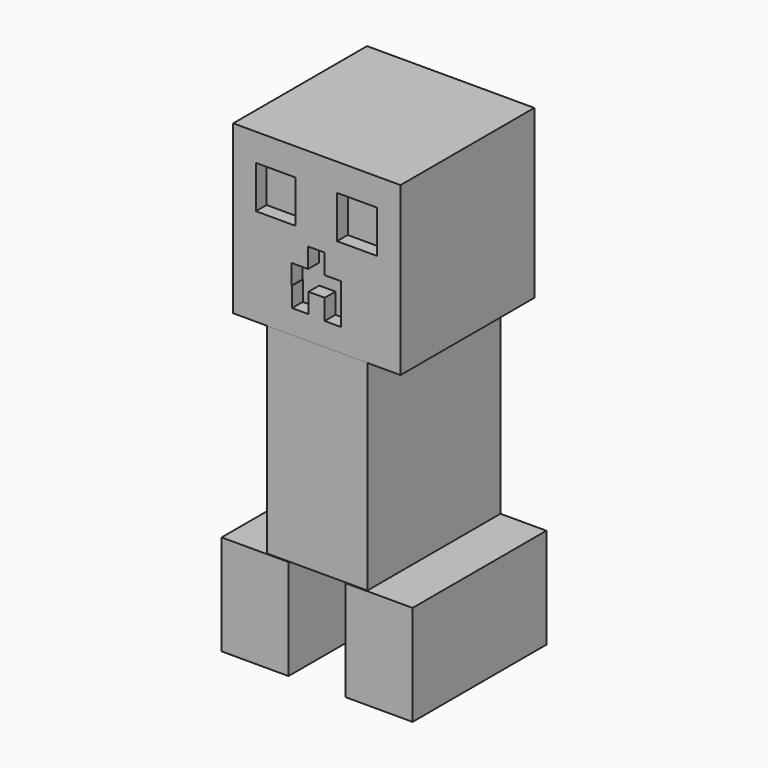
from build123d import *

# Parameters (mm, degrees)
F0_W     = 10
F0_H     = 25
F1_DEPTH = 15
F2_W     = 15
F2_H     = 24.8539805735
F3_DEPTH = 30
F4_W     = 25
F4_H     = 25
F5_DEPTH = 25
F6_W     = 5.9482037936
F6_H     = 6.3592779519
F6_W_2   = 2.393132908
F6_H_2   = 0.0191081481
F6_W_3   = 0.0597889316
F6_W_4   = 2.453060212
F6_H_3   = 2.9690019832
F6_W_5   = 2.4527834672
F6_H_4   = 2.9696544395
F6_W_6   = 2.2974823811
F7_DEPTH = 2
F8_W     = 2.4261582943
F8_H     = 6.0309980168
F9_DEPTH = 2


with BuildPart() as f1:
    # F0 (on Top) → F1 (new body)
    with BuildSketch(Plane.XY):
        with Locations((-9.1005424593, 1.6241561423)):
            Rectangle(F0_W, F0_H)
    extrude(amount=F1_DEPTH)


with BuildPart() as f1b:
    # F0 (on Top) → F1, piece 2 (new body)
    with BuildSketch(Plane.XY):
        with Locations((9.4371975632, 1.6241561423)):
            Rectangle(F0_W, F0_H)
    extrude(amount=F1_DEPTH)


with BuildPart() as f3:
    # F2 (on face) → F3 (new body)
    with BuildSketch(Plane.XY.offset(15)):
        with Locations((0.0759150647, 1.6971658555)):
            Rectangle(F2_W, F2_H)
    extrude(amount=F3_DEPTH)

    # F4 (on face) → F5 (join)
    with BuildSketch(Plane.XY.offset(45)):
        with Locations((0.0759150647, 1.6971658555)):
            Rectangle(F4_W, F4_H)
    extrude(amount=F5_DEPTH)

    # F6 (on face) → F7 (cut)
    with BuildSketch(Plane.XZ.offset(10.8028341445)):
        with Locations((-6.0677118599, 62.7170577645)):
            Rectangle(F6_W, F6_H)
        with Locations((6.0677118599, 62.7170577645)):
            Rectangle(F6_W, F6_H)
        Polygon((-1.1696176552, 51.4970461307), (-1.2294065868, 51.4970461307), (-3.6225394948, 51.4970461307), (-3.6225394948, 48.5468260675), (-1.1696176552, 48.5468260675), align=None)
        with Locations((-2.4259730408, 51.5066002048)):
            Rectangle(F6_W_2, F6_H_2)
        with Locations((-1.199512121, 51.5066002048)):
            Rectangle(F6_W_3, F6_H_2)
        Polygon((-3.682190054, 51.4970461307), (-3.6225394948, 51.4970461307), (-3.6225394948, 51.5161542788), (-1.2294065868, 51.5161542788), (-1.2294065868, 54.4667005702), (-3.682190054, 54.4667005702), align=None)
        Polygon((-1.2294065868, 54.4667005702), (-1.2294065868, 51.5161542788), (-1.1696176552, 51.5161542788), (-1.1696176552, 51.4970461307), (1.2236536252, 51.4970461307), (1.2236536252, 54.4667005702), align=None)
        with Locations((-0.0028764808, 55.9512015618)):
            Rectangle(F6_W_4, F6_H_3)
        with Locations((2.4500453588, 52.9818733505)):
            Rectangle(F6_W_5, F6_H_4)
        with Locations((2.3990199887, 49.9205297731)):
            Rectangle(F6_W_6, F6_H_4)
    extrude(amount=-F7_DEPTH, mode=Mode.SUBTRACT)

    # F8 (on face) → F9 (cut)
    with BuildSketch(Plane.XZ.offset(10.8028341445)):
        with Locations((2.4633579453, 51.4512015618)):
            Rectangle(F8_W, F8_H)
    extrude(amount=-F9_DEPTH, mode=Mode.SUBTRACT)


solid = Compound([f1.part, f1b.part, f3.part])
